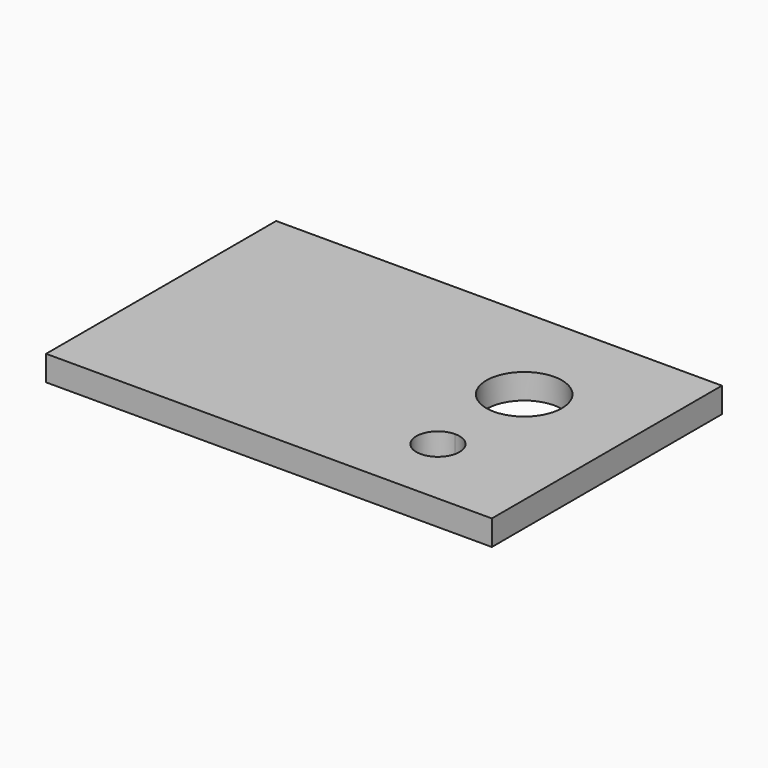
from build123d import *

# Parameters (mm, degrees)
F0_W     = 124
F0_H     = 80
F1_DEPTH = 7
F5_DEPTH = 25


with BuildPart() as f1:
    # F0 (on Top) → F1 (new body)
    with BuildSketch(Plane.XY):
        with Locations((-62, 40)):
            Rectangle(F0_W, F0_H)
        with Locations((-62, 40)):
            Rectangle(F0_W, F0_H)
    extrude(amount=-F1_DEPTH)


with BuildPart() as f2_1:
    # F2: copy of F1
    add(f1.part)

    # F4 (on face) → F5 (cut)
    with BuildSketch(Plane.XY):
        with BuildLine():
            ThreePointArc((-20.5, 50), (-38.424621, 57.424621), (-31, 39.5))
            ThreePointArc((-31, 39.5), (-23.575379, 42.575379), (-20.5, 50))
        make_face()
        with BuildLine():
            ThreePointArc((-25, 20), (-26.757359, 24.242641), (-31, 26))
            ThreePointArc((-31, 26), (-35.242641, 15.757359), (-25, 20))
        make_face()
    extrude(amount=-F5_DEPTH, mode=Mode.SUBTRACT)


solid = f2_1.part
